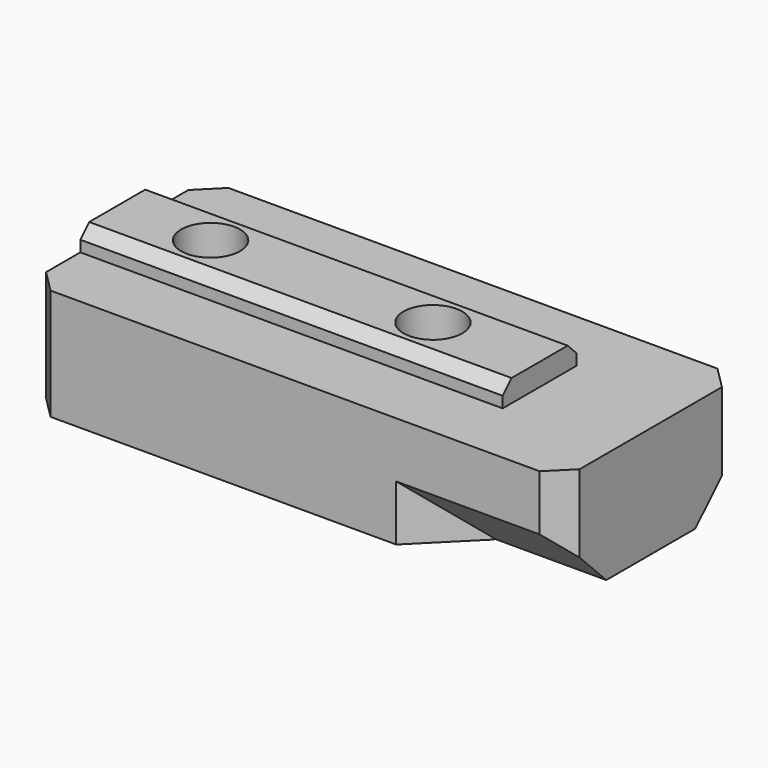
from build123d import *

# Parameters (mm, degrees)
SKETCH020_W            = 48
SKETCH020_H            = 20
PAD004_DEPTH           = 10
PAD005_DEPTH           = 38
SKETCH022_R            = 6
POCKET017_DEPTH        = 3.65
LINEARPATTERN003_COUNT = 2
LINEARPATTERN003_PITCH = 20
HOLE_D                 = 5.3
HOLE_CSINK_D           = 12
HOLE_CSINK_ANGLE       = 90
LINEARPATTERN004_COUNT = 2
LINEARPATTERN004_PITCH = 20
POCKET018_DEPTH        = 10
CHAMFER013_SIZE        = 4.9
CHAMFER014_SIZE        = 2


with BuildPart() as part:
    # Sketch020 (on Face2 of ShapeBinder004) → Pad004 (new body)
    with BuildSketch(Plane(origin=(0, 0, -7.5), x_dir=(1, 0, 0), z_dir=(0, 0, -1))):
        with Locations((134, 0)):
            Rectangle(SKETCH020_W, SKETCH020_H)
    extrude(amount=PAD004_DEPTH)

    # Sketch021 (on Face2 of Pad004) → Pad005 (join)
    with BuildSketch(Plane(origin=(110, 0, 0), x_dir=(0, -1, 0), z_dir=(-1, 0, 0))):
        Polygon((-4.148333, -7.5), (4.151667, -7.5), (4.151667, -6.5), (3.151667, -5.5), (-3.151667, -5.5), (-4.148333, -6.5), align=None)
    extrude(amount=-PAD005_DEPTH)

    # Sketch022 (on Face4 of Pad005) → Pocket017 (cut)
    with BuildSketch(Plane(origin=(0, 0, -17.5), x_dir=(1, 0, 0), z_dir=(0, 0, -1))):
        with Locations((118.4, 0)):
            Circle(SKETCH022_R)
    pocket017 = extrude(amount=-POCKET017_DEPTH, mode=Mode.SUBTRACT)

    # LinearPattern003: Pocket017 ×2
    with Locations(*[(i * LINEARPATTERN003_PITCH, 0, 0) for i in range(1, LINEARPATTERN003_COUNT)]):
        add(pocket017, mode=Mode.SUBTRACT)

    # Hole (through all)
    with Locations(Plane(origin=(0, 0, -13.85), x_dir=(1, 0, 0), z_dir=(0, 0, -1))):
        with Locations((118.4, 0)):
            hole = CounterSinkHole(HOLE_D / 2, HOLE_CSINK_D / 2, counter_sink_angle=HOLE_CSINK_ANGLE)

    # LinearPattern004: Hole ×2
    with Locations(*[(i * LINEARPATTERN004_PITCH, 0, 0) for i in range(1, LINEARPATTERN004_COUNT)]):
        add(hole, mode=Mode.SUBTRACT)

    # Sketch029 (on Face2 of LinearPattern004) → Pocket018 (cut)
    with BuildSketch(Plane.YZ.offset(158)):
        Polygon((10, -12.5), (5, -17.5), (10, -17.5), align=None)
    pocket018 = extrude(amount=-POCKET018_DEPTH, mode=Mode.SUBTRACT)

    # Mirrored011: Pocket018 across Sketch029 V_Axis
    add(pocket018.mirror(Plane(origin=(158, 0, 0), x_dir=(1, 0, 0), z_dir=(0, 1, 0))), mode=Mode.SUBTRACT)

    # Chamfer013
    chamfer013_edges = [part.edges().sort_by_distance(p)[0] for p in [
        (148, 10, -15),
        (148, -10, -15),
    ]]
    chamfer(chamfer013_edges, length=CHAMFER013_SIZE)

    # Chamfer014
    chamfer014_edges = [part.edges().sort_by_distance(p)[0] for p in [
        (158, -10, -10),
        (158, 10, -10),
        (110, -10, -12.5),
        (110, 10, -12.5),
    ]]
    chamfer(chamfer014_edges, length=CHAMFER014_SIZE)


solid = part.part
